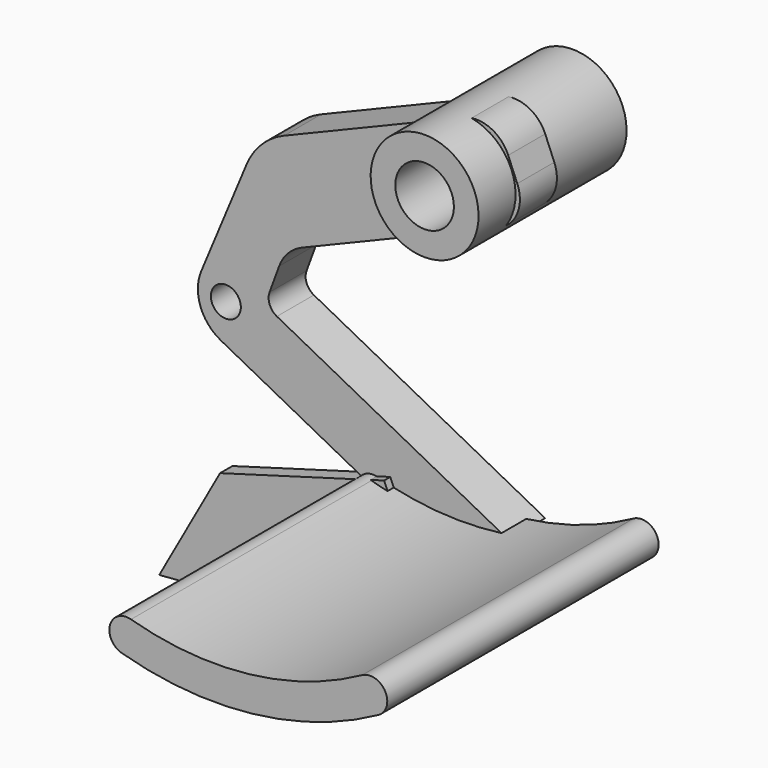
from build123d import *

# Parameters (mm, degrees)
SKETCH024_R             = 3.5
SKETCH024_R_2           = 1.9
PAD012_DEPTH            = 12
SKETCH025_R             = 2
SKETCH025_R_2           = 0.972006
PAD013_DEPTH            = 3
PAD014_DEPTH            = 22
PAD015_DEPTH            = 0.5
BODY006_PLACEMENT_ANGLE = 22.5


with BuildPart() as part:
    # Sketch024 → Pad012 (new body)
    with BuildSketch(Plane.XZ.offset(-7)):
        Circle(SKETCH024_R)
        Circle(SKETCH024_R_2, mode=Mode.SUBTRACT)
    extrude(amount=PAD012_DEPTH)

    # Sketch025 → Pad013 (join)
    with BuildSketch(Plane.XZ.offset(-1)):
        with BuildLine():
            Line((3.591196, 0.770117), (3.591196, -0.770117))
            ThreePointArc((1.361313, -3), (2.938078, -2.346882), (3.591196, -0.770117))
            Line((-12.451851, -3), (1.361313, -3))
            ThreePointArc((-12.451851, -3), (-13.518451, -3.22331), (-14.40589, -3.855731))
            Line((-14.40589, -3.855731), (-15.625704, -5.177633))
            ThreePointArc((-15.625704, -5.177633), (-15.890477, -5.83085), (-15.658609, -6.496457))
            Line((-15.658609, -6.496457), (-4.807646, -19.501059))
            Line((-4.807646, -19.501059), (-11.027147, -18.20942))
            Line((-19.99501, -7.462236), (-11.027147, -18.20942))
            ThreePointArc((-19.821704, -3.713124), (-20.637136, -5.553991), (-19.99501, -7.462236))
            Line((-14.397367, 1.685472), (-19.821704, -3.713124))
            ThreePointArc((-11.21311, 3), (-12.93557, 2.658446), (-14.397367, 1.685472))
            Line((-11.21311, 3), (-4.42391, 3))
            Line((-4.42391, 3), (1.361313, 3))
            ThreePointArc((3.591196, 0.770117), (2.938078, 2.346882), (1.361313, 3))
        make_face()
        Circle(SKETCH025_R, mode=Mode.SUBTRACT)
        with Locations((-18.806547, -5.445875)):
            Circle(SKETCH025_R_2, mode=Mode.SUBTRACT)
    extrude(amount=PAD013_DEPTH)

    # Sketch026 → Pad014 (join)
    with BuildSketch(Plane.XZ):
        with BuildLine():
            ThreePointArc((-12.313913, -15.505081), (-5.478083, -19.027102), (2.184032, -19.679177))
            ThreePointArc((2.426703, -21.865752), (3.398655, -20.651129), (2.184032, -19.679177))
            ThreePointArc((-13.682126, -17.227868), (-6.086758, -21.141224), (2.426703, -21.865752))
            ThreePointArc((-12.313913, -15.505081), (-13.859413, -15.682368), (-13.682126, -17.227868))
        make_face()
    extrude(amount=PAD014_DEPTH)

    # Sketch027 → Pad015 (join, symmetric)
    with BuildSketch(Plane.XZ.offset(2)):
        Polygon((-28.80796, -19.352043), (-23.182241, -21.180655), (-12.468725, -18.606313), (-11.456409, -18.159056), (-11.456409, -15.568812), (-22.449142, -14.305279), align=None)
    extrude(amount=PAD015_DEPTH, both=True)


with BuildPart() as part_1:
    # Body006 placement: moved
    add(part.part.moved(Location((-10, 10, 31))).rotate(Axis((-10, 10, 31), (0, -1, 0)), BODY006_PLACEMENT_ANGLE))


solid = part_1.part
